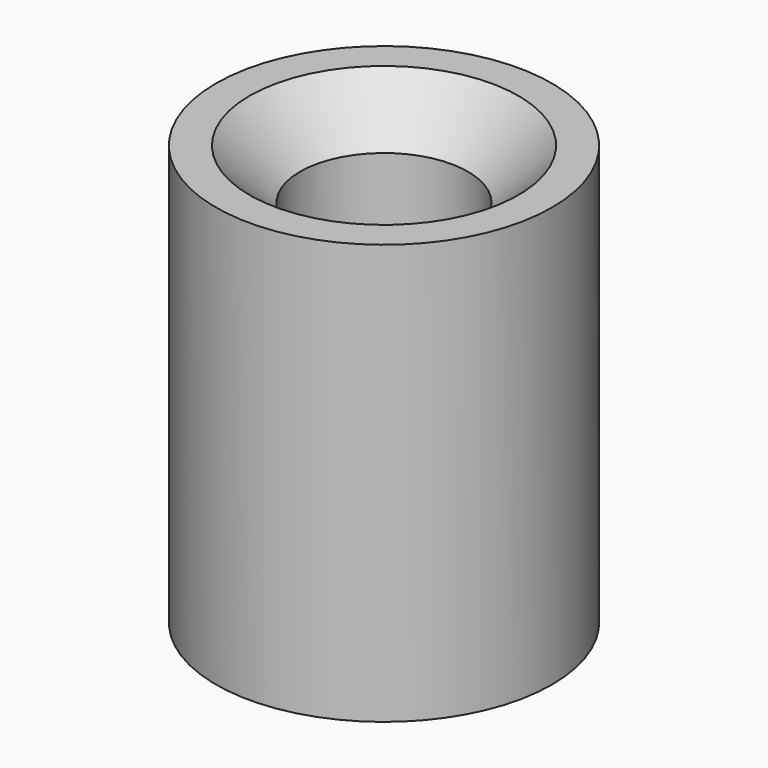
from build123d import *

# Parameters (mm, degrees)
F0_R           = 10
F1_DEPTH       = 25
F3_D           = 10
F3_DEPTH       = 15
F3_CSINK_D     = 16
F3_CSINK_ANGLE = 90
F5_D           = 10
F5_DEPTH       = 15
F5_CSINK_D     = 16
F5_CSINK_ANGLE = 90


with BuildPart() as f1:
    # F0 (on Top) → F1 (new body)
    with BuildSketch(Plane.XY):
        Circle(F0_R)
    extrude(amount=F1_DEPTH)

    # F3
    with Locations(Plane.XY.offset(25)):
        with Locations((0, 0)):
            CounterSinkHole(F3_D / 2, F3_CSINK_D / 2, depth=F3_DEPTH, counter_sink_angle=F3_CSINK_ANGLE)

    # F5
    with Locations(Plane(origin=(0, 0, 0), x_dir=(1, 0, 0), z_dir=(0, 0, -1))):
        with Locations((0, 0)):
            CounterSinkHole(F5_D / 2, F5_CSINK_D / 2, depth=F5_DEPTH, counter_sink_angle=F5_CSINK_ANGLE)


solid = f1.part
